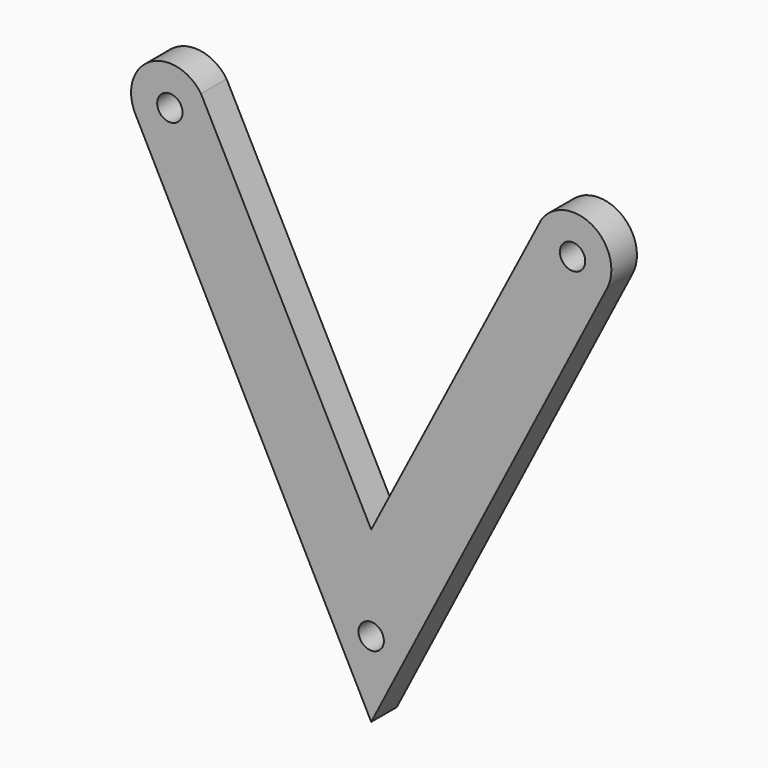
from build123d import *

# Parameters (mm, degrees)
F4_DEPTH = 8
F2_R     = 3.171744
F5_DEPTH = 25
F0_R     = 3.171744
F6_DEPTH = 25


with BuildPart() as f4:
    # F3 (on Front) → F4 (new body)
    with BuildSketch(Plane.XZ):
        with BuildLine():
            Line((-59.009388, 95.835626), (0, -18.867213))
            Line((0, -18.867213), (59.009388, 95.835626))
            ThreePointArc((59.009388, 95.835626), (55.394876, 108.451405), (42.578131, 105.631188))
            Line((42.578131, 105.631188), (0, 23.474881))
            Line((0, 23.474881), (-42.578131, 105.631188))
            ThreePointArc((-42.578131, 105.631188), (-55.394876, 108.451405), (-59.009388, 95.835626))
        make_face()
    extrude(amount=F4_DEPTH)

    # F2 (on Front) → F5 (cut)
    with BuildSketch(Plane.XZ):
        with Locations((-50.368942, 99.972241)):
            Circle(F2_R)
        with Locations((50.368942, 99.972241)):
            Circle(F2_R)
    extrude(amount=F5_DEPTH, mode=Mode.SUBTRACT)

    # F0 (on Front) → F6 (cut)
    with BuildSketch(Plane.XZ):
        Circle(F0_R)
    extrude(amount=F6_DEPTH, mode=Mode.SUBTRACT)


solid = f4.part
